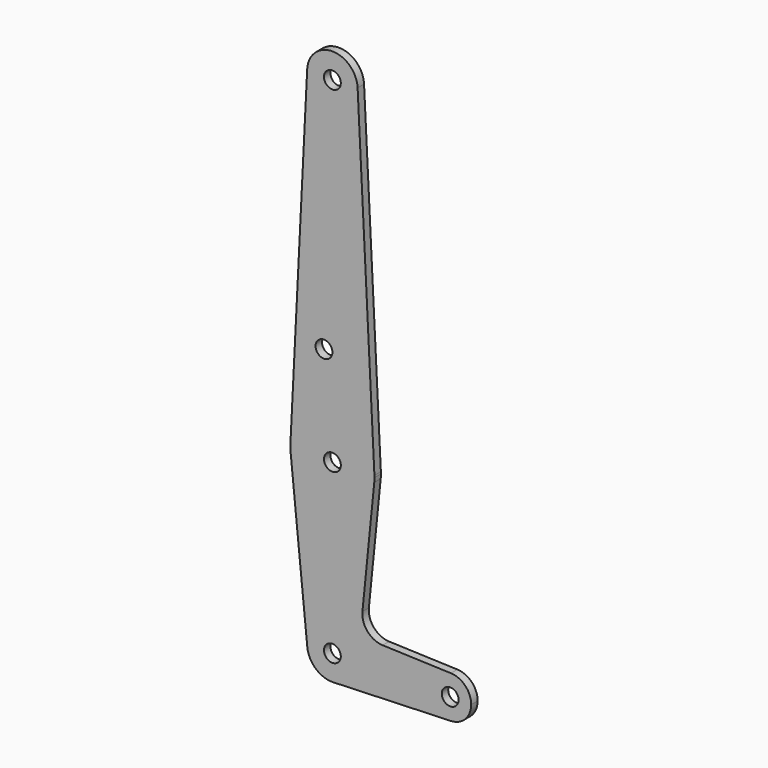
from build123d import *

# Parameters (mm, degrees)
F0_R     = 3.175
F1_DEPTH = 3.048


with BuildPart() as f1:
    # F0 (on Front) → F1 (new body)
    with BuildSketch(Plane.XZ):
        with BuildLine():
            ThreePointArc((9.525, 127), (9.522021, 127.238199), (9.513086, 127.47625))
            ThreePointArc((9.513086, 127.47625), (0, 136.525), (-9.513086, 127.47625))
            ThreePointArc((-9.513086, 127.47625), (-0.238199, 117.477979), (9.525, 127))
        make_face()
        with Locations((0, 127)):
            Circle(F0_R, mode=Mode.SUBTRACT)
        with BuildLine():
            Line((11.341187, -45.906618), (15.795426, -1.5875))
            ThreePointArc((15.795426, -1.5875), (0, -15.875), (-15.795426, -1.5875))
            Line((-15.795426, -1.5875), (-9.477255, -64.4525))
            ThreePointArc((-9.477255, -64.4525), (-0.476848, -53.986944), (9.525, -63.5))
            ThreePointArc((9.525, -63.5), (6.854408, -70.113827), (0.340179, -73.018923))
            Line((0.340179, -73.018923), (44.733482, -71.432436))
            ThreePointArc((44.733482, -71.432436), (36.5125, -63.5), (44.733482, -55.567564))
            Line((44.733482, -55.567564), (18.9676, -54.646766))
            ThreePointArc((18.9676, -54.646766), (13.2612, -51.928641), (11.341187, -45.906618))
        make_face()
        with BuildLine():
            ThreePointArc((52.3875, -63.5), (50.162007, -57.988477), (44.733482, -55.567564))
            ThreePointArc((44.733482, -55.567564), (36.5125, -63.5), (44.733482, -71.432436))
            ThreePointArc((44.733482, -71.432436), (50.162007, -69.011523), (52.3875, -63.5))
        make_face()
        with Locations((44.45, -63.5)):
            Circle(F0_R, mode=Mode.SUBTRACT)
        with BuildLine():
            ThreePointArc((9.525, -63.5), (-0.476848, -53.986944), (-9.477255, -64.4525))
            ThreePointArc((-9.477255, -64.4525), (-6.262383, -70.67692), (0.340179, -73.018923))
            ThreePointArc((0.340179, -73.018923), (6.854408, -70.113827), (9.525, -63.5))
        make_face()
        with Locations((0, -63.5)):
            Circle(F0_R, mode=Mode.SUBTRACT)
        with BuildLine():
            ThreePointArc((-15.855144, 0.79375), (0, 15.875), (15.855144, 0.79375))
            Line((15.855144, 0.79375), (9.513086, 127.47625))
            ThreePointArc((9.513086, 127.47625), (9.522021, 127.238199), (9.525, 127))
            ThreePointArc((9.525, 127), (-0.238199, 117.477979), (-9.513086, 127.47625))
            Line((-9.513086, 127.47625), (-15.855144, 0.79375))
        make_face()
        with Locations((-3.175, 36.5252)):
            Circle(F0_R, mode=Mode.SUBTRACT)
        with BuildLine():
            ThreePointArc((15.795426, -1.5875), (15.855094, -0.794747), (15.875, 0))
            ThreePointArc((15.875, 0), (15.870035, 0.396999), (15.855144, 0.79375))
            ThreePointArc((15.855144, 0.79375), (0, 15.875), (-15.855144, 0.79375))
            ThreePointArc((-15.855144, 0.79375), (-15.87001, -0.397997), (-15.795426, -1.5875))
            ThreePointArc((-15.795426, -1.5875), (0, -15.875), (15.795426, -1.5875))
        make_face()
        Circle(F0_R, mode=Mode.SUBTRACT)
    extrude(amount=F1_DEPTH)


solid = f1.part
